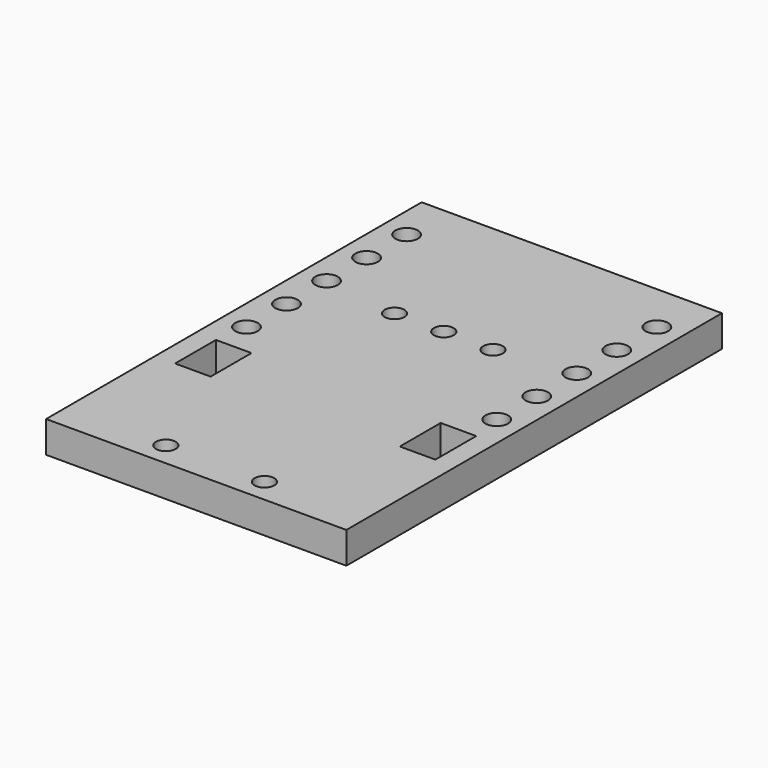
from build123d import *

# Parameters (mm, degrees)
F0_W     = 15.24
F0_H     = 23.82343
F0_R     = 0.5715
F1_DEPTH = 1.6
F2_R     = 0.5
F2_W     = 1.8034
F2_H     = 2.5908
F3_DEPTH = 1.601


with BuildPart() as f1:
    # F0 (on Top) → F1 (new body)
    with BuildSketch(Plane.XY):
        Rectangle(F0_W, F0_H)
        with Locations((-6.35, -0.788285)):
            Circle(F0_R, mode=Mode.SUBTRACT)
        with Locations((6.35, -0.788285)):
            Circle(F0_R, mode=Mode.SUBTRACT)
        with Locations((-6.35, 1.751715)):
            Circle(F0_R, mode=Mode.SUBTRACT)
        with Locations((-6.35, 4.291715)):
            Circle(F0_R, mode=Mode.SUBTRACT)
        with Locations((-6.35, 6.831715)):
            Circle(F0_R, mode=Mode.SUBTRACT)
        with Locations((-6.35, 9.371715)):
            Circle(F0_R, mode=Mode.SUBTRACT)
        with Locations((6.35, 1.751715)):
            Circle(F0_R, mode=Mode.SUBTRACT)
        with Locations((6.35, 4.291715)):
            Circle(F0_R, mode=Mode.SUBTRACT)
        with Locations((6.35, 6.831715)):
            Circle(F0_R, mode=Mode.SUBTRACT)
        with Locations((6.35, 9.371715)):
            Circle(F0_R, mode=Mode.SUBTRACT)
    extrude(amount=F1_DEPTH)

    # F2 (on Top) → F3 (cut, through all)
    with BuildSketch(Plane.XY):
        with Locations((2.5019, -10.712373)):
            Circle(F2_R)
        with Locations((0, 3.791027)):
            Circle(F2_R)
        with Locations((-2.5, 3.791027)):
            Circle(F2_R)
        with Locations((-2.5019, -10.712373)):
            Circle(F2_R)
        with Locations((2.5, 3.791027)):
            Circle(F2_R)
        with Locations((-5.7023, -3.701973)):
            Rectangle(F2_W, F2_H)
        with Locations((5.7023, -3.701973)):
            Rectangle(F2_W, F2_H)
    extrude(amount=F3_DEPTH, mode=Mode.SUBTRACT)


solid = f1.part
